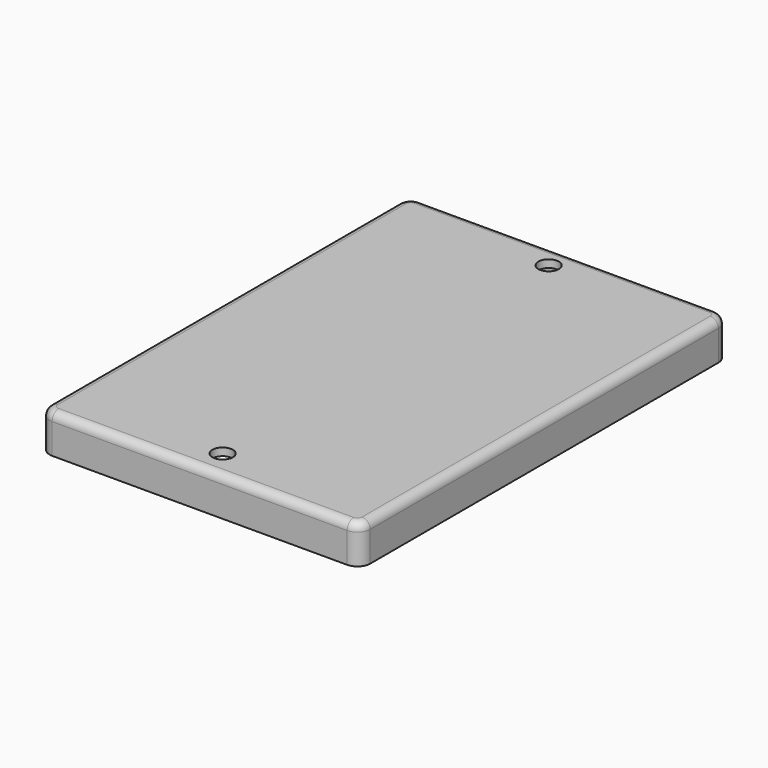
from build123d import *

# Parameters (mm, degrees)
F1_DEPTH = 9.525
F0_R     = 2.54
F2_DEPTH = 1.9
F3_R     = 2.032


with BuildPart() as f1:
    # F0 (on Top) → F1 (new body)
    with BuildSketch(Plane.XY):
        with BuildLine():
            ThreePointArc((-69.634456, 11.076584), (-67.389392, 12.00652), (-66.459456, 14.251584))
            Line((-66.459456, 14.251584), (-66.459456, 122.201584))
            ThreePointArc((-66.459456, 122.201584), (-67.389392, 124.446648), (-69.634456, 125.376584))
            Line((-69.634456, 125.376584), (-142.802102, 125.376584))
            ThreePointArc((-142.802102, 125.376584), (-145.047166, 124.446648), (-145.977102, 122.201584))
            Line((-145.977102, 122.201584), (-145.977102, 14.251584))
            ThreePointArc((-145.977102, 14.251584), (-145.047166, 12.00652), (-142.802102, 11.076584))
            Line((-142.802102, 11.076584), (-69.634456, 11.076584))
        make_face()
        with BuildLine():
            ThreePointArc((-69.634456, 123.476584), (-68.732894, 123.103146), (-68.359456, 122.201584))
            Line((-68.359456, 122.201584), (-68.359456, 14.251584))
            ThreePointArc((-68.359456, 14.251584), (-68.732894, 13.350023), (-69.634456, 12.976584))
            Line((-69.634456, 12.976584), (-142.802102, 12.976584))
            ThreePointArc((-142.802102, 12.976584), (-143.703663, 13.350023), (-144.077102, 14.251584))
            Line((-144.077102, 14.251584), (-144.077102, 122.201584))
            ThreePointArc((-144.077102, 122.201584), (-143.703663, 123.103146), (-142.802102, 123.476584))
            Line((-142.802102, 123.476584), (-69.634456, 123.476584))
        make_face(mode=Mode.SUBTRACT)
    extrude(amount=-F1_DEPTH)

    # F0 (on Top) → F2 (join)
    with BuildSketch(Plane.XY):
        with BuildLine():
            Line((-68.359456, 14.251584), (-68.359456, 122.201584))
            ThreePointArc((-68.359456, 122.201584), (-68.732894, 123.103146), (-69.634456, 123.476584))
            Line((-69.634456, 123.476584), (-142.802102, 123.476584))
            ThreePointArc((-142.802102, 123.476584), (-143.703663, 123.103146), (-144.077102, 122.201584))
            Line((-144.077102, 122.201584), (-144.077102, 14.251584))
            ThreePointArc((-144.077102, 14.251584), (-143.703663, 13.350023), (-142.802102, 12.976584))
            Line((-142.802102, 12.976584), (-69.634456, 12.976584))
            ThreePointArc((-69.634456, 12.976584), (-68.732894, 13.350023), (-68.359456, 14.251584))
        make_face()
        with Locations((-106.218279, 18.188584)):
            Circle(F0_R, mode=Mode.SUBTRACT)
        with Locations((-106.218279, 119.280584)):
            Circle(F0_R, mode=Mode.SUBTRACT)
    extrude(amount=-F2_DEPTH)

    # F3
    f3_edges = [f1.edges().sort_by_distance(p)[0] for p in [
        (-106.218279, 125.376584, 0),
    ]]
    fillet(f3_edges, radius=F3_R)


solid = f1.part
